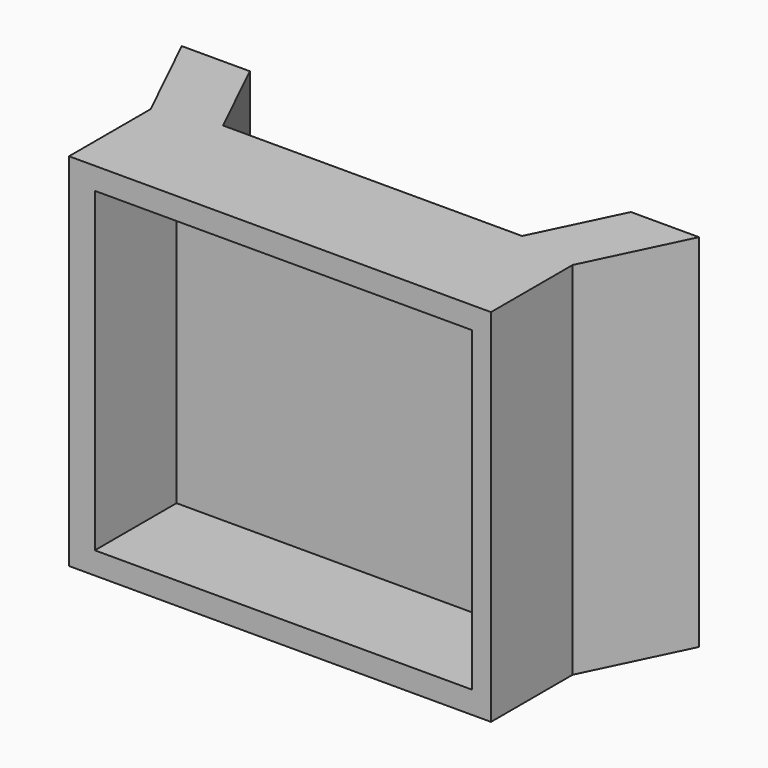
from build123d import *

# Parameters (mm, degrees)
F1_DEPTH = 53.007968
F2_W     = 62
F2_H     = 53.007968
F2_W_2   = 55.406839
F2_H_2   = 46.501182
F3_DEPTH = 15


with BuildPart() as f1:
    # F0 (on Top) → F1 (new body)
    with BuildSketch(Plane.XY):
        Polygon((-1.481589, 0), (0, 0), (60.518411, 0), (67.518411, 14.453191), (57.518411, 14.453191), (51.487055, 2), (7.549767, 2), (1.518411, 14.453191), (-8.481589, 14.453191), align=None)
    extrude(amount=F1_DEPTH)

    # F2 (on face) → F3 (join)
    with BuildSketch(Plane.XZ):
        with Locations((29.518411, 26.503984)):
            Rectangle(F2_W, F2_H)
        with Locations((30.017025, 26.519272)):
            Rectangle(F2_W_2, F2_H_2, mode=Mode.SUBTRACT)
    extrude(amount=F3_DEPTH)


solid = f1.part
